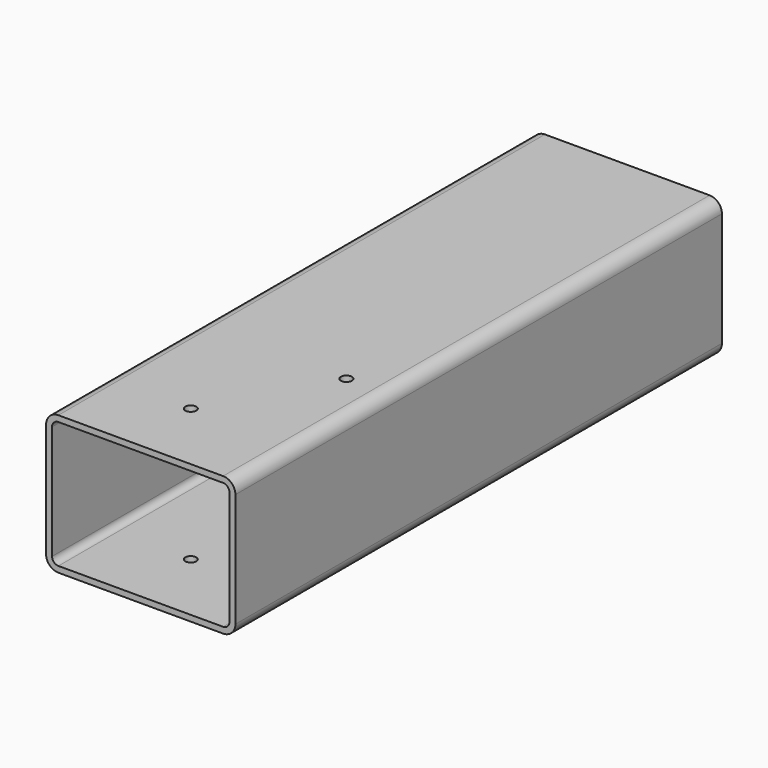
from build123d import *

# Parameters (mm, degrees)
F1_DEPTH = 152.4
F3_D     = 5.5


with BuildPart() as f1:
    # F0 (on Front) → F1 (new body, symmetric)
    with BuildSketch(Plane.XZ):
        with BuildLine():
            Line((41.275, 34.75), (-41.275, 34.75))
            ThreePointArc((-41.275, 34.75), (-45.6413843738, 32.9413843738), (-47.45, 28.575))
            Line((-47.45, 28.575), (-47.45, -28.575))
            ThreePointArc((-47.45, -28.575), (-45.6413843738, -32.9413843738), (-41.275, -34.75))
            Line((-41.275, -34.75), (41.275, -34.75))
            ThreePointArc((41.275, -34.75), (45.6413843738, -32.9413843738), (47.45, -28.575))
            Line((47.45, -28.575), (47.45, 28.575))
            ThreePointArc((47.45, 28.575), (45.6413843738, 32.9413843738), (41.275, 34.75))
        make_face()
        with BuildLine():
            ThreePointArc((-44.45, 28.575), (-43.5200640303, 30.8200640303), (-41.275, 31.75))
            Line((-41.275, 31.75), (41.275, 31.75))
            ThreePointArc((41.275, 31.75), (43.5200640303, 30.8200640303), (44.45, 28.575))
            Line((44.45, 28.575), (44.45, -28.575))
            ThreePointArc((44.45, -28.575), (43.5200640303, -30.8200640303), (41.275, -31.75))
            Line((41.275, -31.75), (-41.275, -31.75))
            ThreePointArc((-41.275, -31.75), (-43.5200640303, -30.8200640303), (-44.45, -28.575))
            Line((-44.45, -28.575), (-44.45, 28.575))
        make_face(mode=Mode.SUBTRACT)
    extrude(amount=F1_DEPTH, both=True)

    # F3 (through all)
    with Locations(Plane.XY.offset(34.75)):
        with Locations((27.4222549051, -57.8443594277), (-4.3209386058, -115.6469583511)):
            Hole(F3_D / 2)


solid = f1.part
